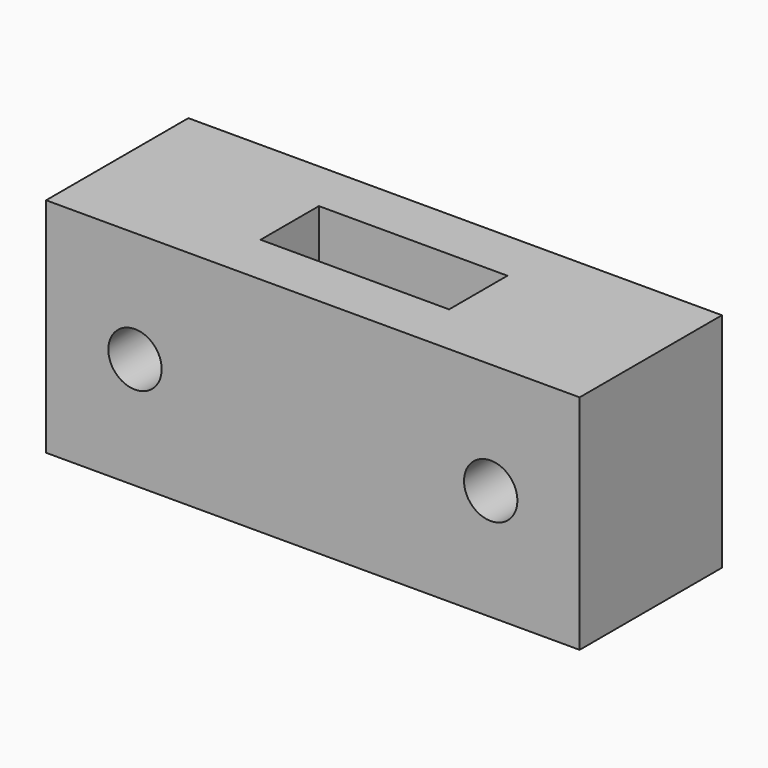
from build123d import *

# Parameters (mm, degrees)
F0_W     = 15
F0_H     = 5
F0_W_2   = 5.3
F0_H_2   = 2.05
F1_DEPTH = 6.25
F2_R     = 0.75
F3_DEPTH = 3.9


with BuildPart() as f1:
    # F0 (on Top) → F1 (new body)
    with BuildSketch(Plane.XY):
        Rectangle(F0_W, F0_H)
        Rectangle(F0_W_2, F0_H_2, mode=Mode.SUBTRACT)
    extrude(amount=F1_DEPTH)

    # F2 (on Front) → F3 (cut, symmetric)
    with BuildSketch(Plane.XZ):
        with Locations((-5, 3.125)):
            Circle(F2_R)
        with Locations((5, 3.125)):
            Circle(F2_R)
    extrude(amount=F3_DEPTH, both=True, mode=Mode.SUBTRACT)


solid = f1.part
